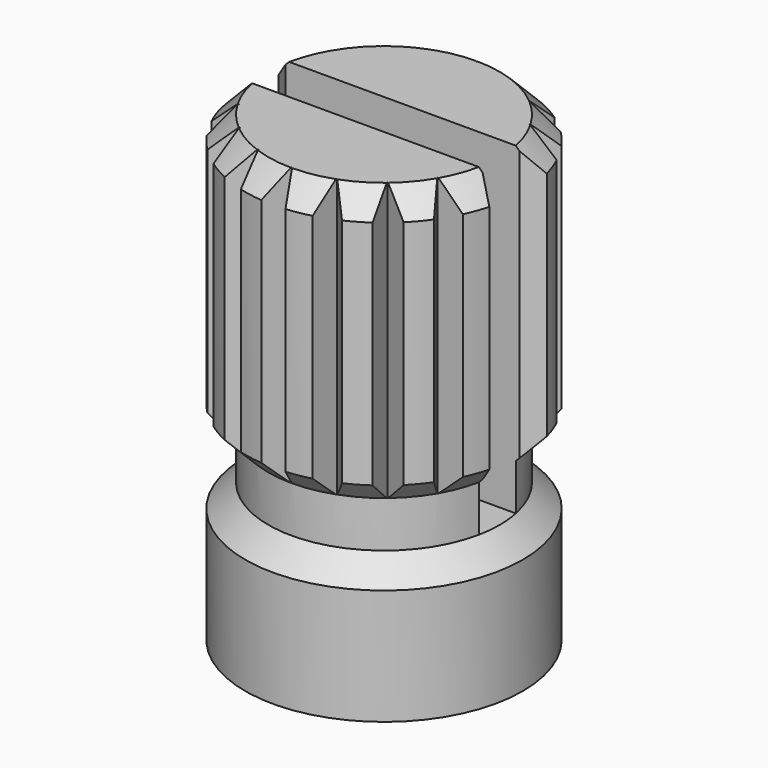
from build123d import *

# Parameters (mm, degrees)
SKETCH_R           = 3
PAD_DEPTH          = 3
CHAMFER_SIZE       = 0.5
SKETCH001_R        = 2.5
PAD001_DEPTH       = 1
SKETCH002_R        = 3
PAD002_DEPTH       = 6
CHAMFER001_SIZE    = 0.499
CHAMFER002_SIZE    = 0.5
POCKET_DEPTH       = 6
POLARPATTERN_COUNT = 18
SKETCH004_W        = 7
SKETCH004_H        = 1
POCKET001_DEPTH    = 7


with BuildPart() as part:
    # Sketch → Pad (new body)
    with BuildSketch(Plane.XY):
        Circle(SKETCH_R)
    extrude(amount=PAD_DEPTH)

    # Chamfer
    chamfer_edges = [part.edges().sort_by_distance(p)[0] for p in [
        (-3, 0, 3),
    ]]
    chamfer(chamfer_edges, length=CHAMFER_SIZE)

    # Sketch001 → Pad001 (join)
    with BuildSketch(Plane.XY.offset(3)):
        Circle(SKETCH001_R)
    extrude(amount=PAD001_DEPTH)

    # Sketch002 → Pad002 (join)
    with BuildSketch(Plane.XY.offset(4)):
        Circle(SKETCH002_R)
    extrude(amount=PAD002_DEPTH)

    # Chamfer001
    chamfer001_edges = [part.edges().sort_by_distance(p)[0] for p in [
        (-3, 0, 4),
    ]]
    chamfer(chamfer001_edges, length=CHAMFER001_SIZE)

    # Chamfer002
    chamfer002_edges = [part.edges().sort_by_distance(p)[0] for p in [
        (-3, 0, 10),
    ]]
    chamfer(chamfer002_edges, length=CHAMFER002_SIZE)

    # Sketch003 → Pocket (cut)
    with BuildSketch(Plane.XY.offset(10)):
        with BuildLine():
            ThreePointArc((0.262071, 2.988531), (0.000606, 3), (-0.260863, 2.988637))
            Line((-0.260863, 2.988637), (0, 2.477175))
            Line((0, 2.477175), (0.262071, 2.988531))
        make_face()
    pocket = extrude(amount=-POCKET_DEPTH, mode=Mode.SUBTRACT)

    # PolarPattern: Pocket ×18 about axis
    polarpattern_axis = Axis((0, 0, 10), (0, 0, 1))
    for i in range(1, POLARPATTERN_COUNT):
        add(pocket.rotate(polarpattern_axis, i * 360 / POLARPATTERN_COUNT), mode=Mode.SUBTRACT)

    # Sketch004 → Pocket001 (cut)
    with BuildSketch(Plane.XY.offset(10)):
        Rectangle(SKETCH004_W, SKETCH004_H)
    extrude(amount=-POCKET001_DEPTH, mode=Mode.SUBTRACT)


solid = part.part
